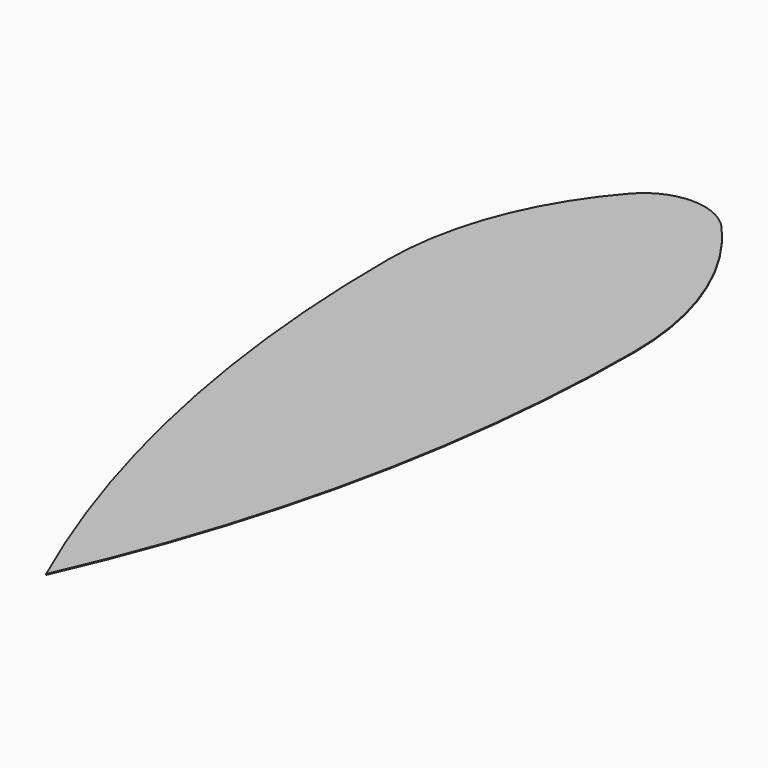
from build123d import *

# Parameters (mm, degrees)
F1_DEPTH = 1


with BuildPart() as f1:
    # F0 (on Top) → F1 (new body)
    with BuildSketch(Plane.XY):
        with BuildLine():
            ThreePointArc((0, -695.104788), (110.589906, -355.343027), (148, 0))
            ThreePointArc((148, 0), (123.909551, 131.875415), (54.75, 246.71631))
            ThreePointArc((54.75, 246.71631), (0, 271.431348), (-54.75, 246.71631))
            ThreePointArc((-54.75, 246.71631), (-123.909551, 131.875415), (-148, 0))
            ThreePointArc((-148, 0), (-110.589906, -355.343027), (0, -695.104788))
        make_face()
    extrude(amount=F1_DEPTH)


solid = f1.part
